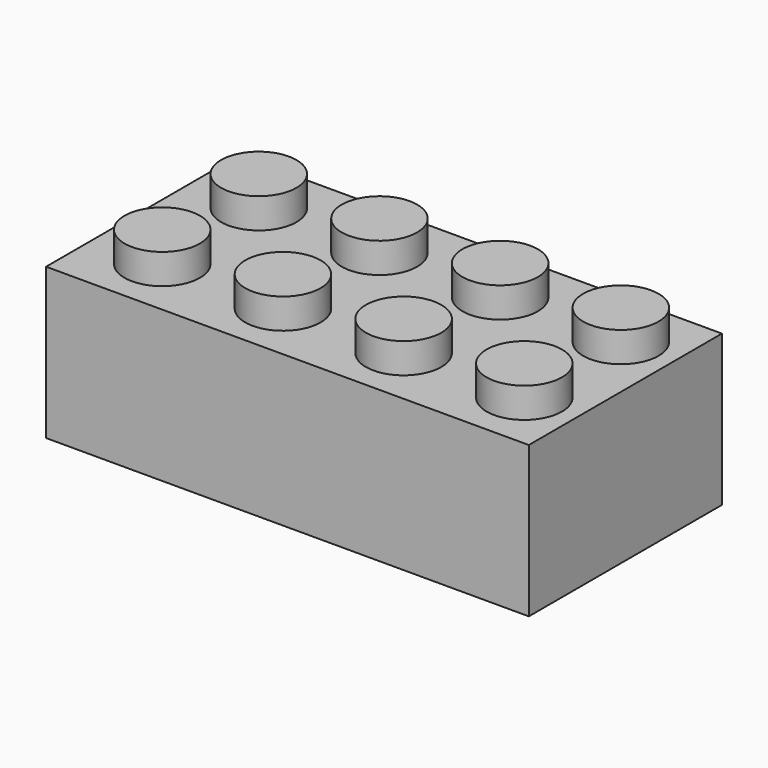
from build123d import *

# Parameters (mm, degrees)
F0_W     = 32
F0_H     = 16
F1_DEPTH = 10
F2_R     = 2.5
F3_DEPTH = 2
F4_T     = -2
F5_R     = 3.75
F5_R_2   = 3.25
F6_DEPTH = 8
F8_DEPTH = 6.5


with BuildPart() as f1:
    # F0 (on Top) → F1 (new body)
    with BuildSketch(Plane.XY):
        Rectangle(F0_W, F0_H)
    extrude(amount=F1_DEPTH)

    # F2 (on face) → F3 (join)
    with BuildSketch(Plane.XY.offset(10)):
        with Locations((-11.5, 4)):
            Circle(F2_R)
        with Locations((-3.5, 4)):
            Circle(F2_R)
        with Locations((12.5, 4)):
            Circle(F2_R)
        with Locations((12.5, -4)):
            Circle(F2_R)
        with Locations((4.5, -4)):
            Circle(F2_R)
        with Locations((-3.5, -4)):
            Circle(F2_R)
        with Locations((-11.5, -4)):
            Circle(F2_R)
        with Locations((4.5, 4)):
            Circle(F2_R)
    extrude(amount=F3_DEPTH)

    # F4
    f4_openings = [f1.faces().sort_by_distance(p)[0] for p in [
        (0, 0, 0),
    ]]
    offset(amount=F4_T, openings=f4_openings, kind=Kind.INTERSECTION)

    # F5 (on face) → F6 (join, through all)
    with BuildSketch(Plane(origin=(0, 0, 8), x_dir=(1, 0, 0), z_dir=(0, 0, -1))):
        with Locations((-7.5, 0)):
            Circle(F5_R)
        with Locations((-7.5, 0)):
            Circle(F5_R_2, mode=Mode.SUBTRACT)
        with Locations((0.7, 0)):
            Circle(F5_R)
        with Locations((0.7, 0)):
            Circle(F5_R_2, mode=Mode.SUBTRACT)
        with Locations((8.9, 0)):
            Circle(F5_R)
        with Locations((8.9, 0)):
            Circle(F5_R_2, mode=Mode.SUBTRACT)
    extrude(amount=F6_DEPTH)

    # F7 (on face) → F8 (join)
    with BuildSketch(Plane(origin=(0, 0, 8), x_dir=(1, 0, 0), z_dir=(0, 0, -1))):
        with BuildLine():
            ThreePointArc((-1.3, 3.1721443851), (0.7, 3.75), (2.7, 3.1721443851))
            Line((2.7, 3.1721443851), (2.7, 6))
            Line((2.7, 6), (-1.3, 6))
            Line((-1.3, 6), (-1.3, 3.1721443851))
        make_face()
        with BuildLine():
            Line((2.7, -6), (2.7, -3.1721443851))
            ThreePointArc((2.7, -3.1721443851), (0.7, -3.75), (-1.3, -3.1721443851))
            Line((-1.3, -3.1721443851), (-1.3, -6))
            Line((-1.3, -6), (2.7, -6))
        make_face()
    extrude(amount=F8_DEPTH)


solid = f1.part
